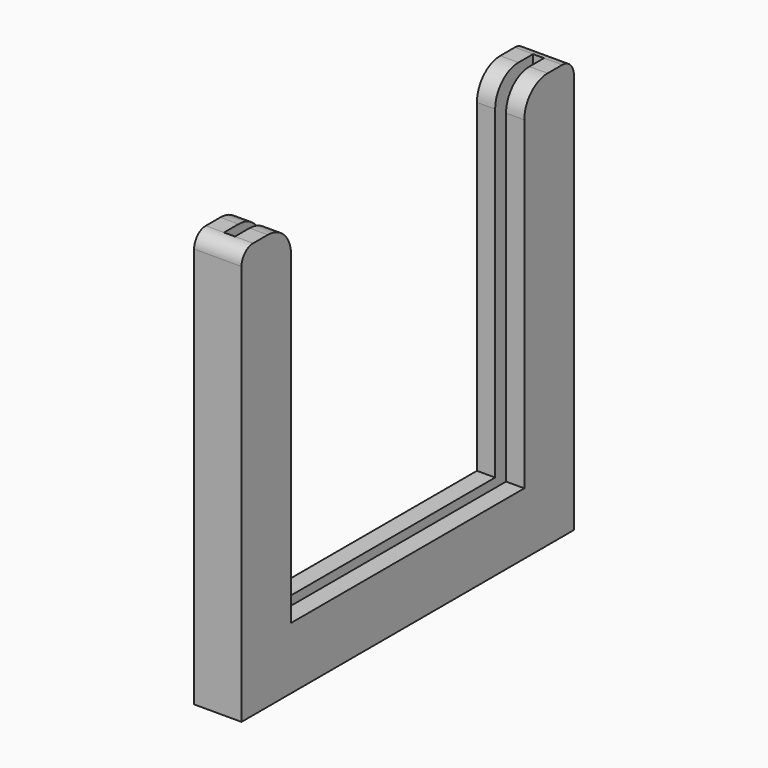
from build123d import *

# Parameters (mm, degrees)
BOX004_W     = 10
BOX004_H     = 40
BOX004_DEPTH = 100
BOX003_W     = 1.5
BOX003_H     = 53
BOX003_DEPTH = 80
BOX002_W     = 6.5
BOX002_H     = 57
BOX002_DEPTH = 57
FILLET002_R  = 2
FILLET003_R  = 4


with BuildPart() as slide_holder_central_hole:
    # Box004 → Box004 (new body)
    with BuildSketch(Plane(origin=(-2, 8.5, 8.5), x_dir=(1, 0, 0), z_dir=(0, 0, 1))):
        with Locations((5, 20)):
            Rectangle(BOX004_W, BOX004_H)
    extrude(amount=BOX004_DEPTH)


with BuildPart() as slide_holder_hole_fusion:
    # Box003 → Box003 (new body)
    with BuildSketch(Plane(origin=(2.5, 2, 2), x_dir=(1, 0, 0), z_dir=(0, 0, 1))):
        with Locations((0.75, 26.5)):
            Rectangle(BOX003_W, BOX003_H)
    extrude(amount=BOX003_DEPTH)

    # Fusion001: union slide holder central hole
    add(slide_holder_central_hole.part)


with BuildPart() as slider_holder_cut_fillet:
    # Box002 → Box002 (new body)
    with BuildSketch(Plane.XY):
        with Locations((3.25, 28.5)):
            Rectangle(BOX002_W, BOX002_H)
    extrude(amount=BOX002_DEPTH)

    # Fillet002
    fillet002_edges = [slider_holder_cut_fillet.edges().sort_by_distance(p)[0] for p in [
        (3.25, 0, 57),
        (3.25, 57, 57),
    ]]
    fillet(fillet002_edges, radius=FILLET002_R)

    # Cut002: cut slide holder hole fusion
    add(slide_holder_hole_fusion.part, mode=Mode.SUBTRACT)

    # Fillet003
    fillet003_edges = [slider_holder_cut_fillet.edges().sort_by_distance(p)[0] for p in [
        (1.25, 8.5, 57),
        (1.25, 48.5, 57),
        (5.25, 8.5, 57),
        (5.25, 48.5, 57),
    ]]
    fillet(fillet003_edges, radius=FILLET003_R)


solid = slider_holder_cut_fillet.part
